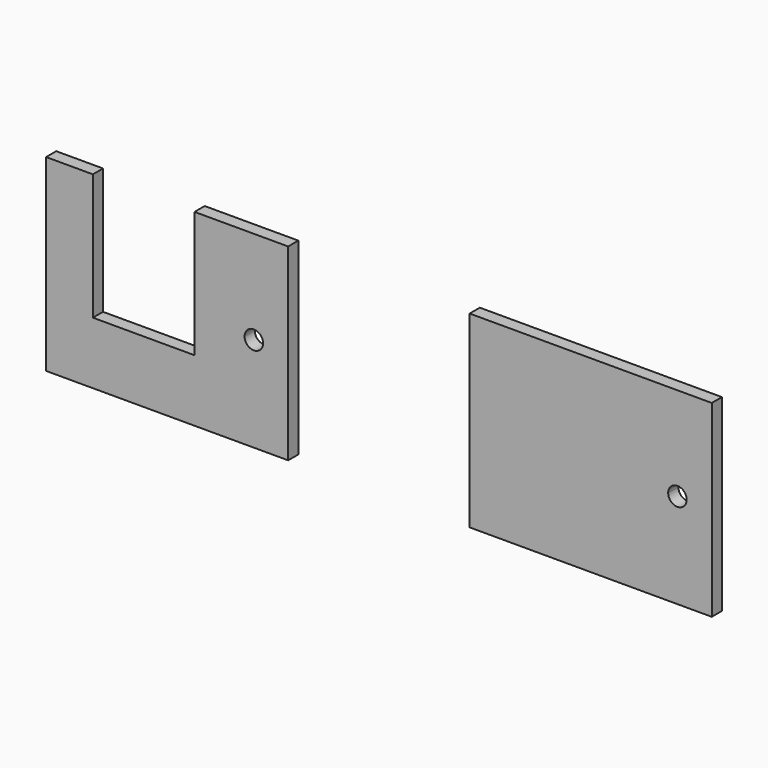
from build123d import *

# Parameters (mm, degrees)
F1_DEPTH = 3
F3_W     = 24
F3_H     = 29.7919254476
F4_DEPTH = 3


with BuildPart() as f1:
    # F0 (on Front) → F1 (new body)
    with BuildSketch(Plane.XZ):
        with BuildLine():
            Line((-13.2813095412, -118.8174709678), (-24.3271607906, -118.8174709678))
            Line((-24.3271607906, -118.8174709678), (-24.3271607906, -163.2674709678))
            Line((-24.3271607906, -163.2674709678), (32.8228392094, -163.2674709678))
            Line((32.8228392094, -163.2674709678), (32.8228392094, -118.8174709678))
            Line((32.8228392094, -118.8174709678), (10.7186904588, -118.8174709678))
            Line((10.7186904588, -118.8174709678), (10.7186904588, -124.8657141138))
            ThreePointArc((10.7186904588, -124.8657141138), (16.6070493723, -131.9210724004), (18.7186904417, -140.8648872041))
            ThreePointArc((18.7186904417, -140.8648872041), (24.7185664001, -134.8646391324), (30.7186904365, -140.8646391312))
            ThreePointArc((30.7186904365, -140.8646391312), (24.7192279278, -146.8646391071), (18.7186905328, -140.8657141137))
            ThreePointArc((18.7186904588, -140.8657141138), (-10.2255814512, -158.7542579338), (-13.2813095412, -124.8657141138))
            Line((-13.2813095412, -124.8657141138), (-13.2813095412, -118.8174709678))
        make_face()
        with BuildLine():
            Line((-13.2813095412, -148.6093964154), (-13.2813095412, -124.8657141138))
            ThreePointArc((-13.2813095412, -124.8657141138), (-10.2255814512, -158.7542579338), (18.7186904588, -140.8657141138))
            ThreePointArc((18.7186904588, -140.8657141138), (18.7186904545, -140.8653006589), (18.7186904417, -140.8648872041))
            Line((18.7186904417, -140.8648872041), (10.7186904588, -140.8652179679))
            Line((10.7186904588, -140.8652179679), (10.7186904588, -148.6093964154))
            Line((10.7186904588, -148.6093964154), (-13.2813095412, -148.6093964154))
        make_face()
        with BuildLine():
            ThreePointArc((18.7186904417, -140.8648872041), (16.6070493723, -131.9210724004), (10.7186904588, -124.8657141138))
            Line((10.7186904588, -124.8657141138), (10.7186904588, -140.8652179679))
            Line((10.7186904588, -140.8652179679), (18.7186904417, -140.8648872041))
        make_face()
        with BuildLine():
            ThreePointArc((18.7186904417, -140.8648872041), (18.7186904545, -140.8653006589), (18.7186904588, -140.8657141138))
            ThreePointArc((18.7186905328, -140.8657141137), (24.7192279278, -146.8646391071), (30.7186904365, -140.8646391312))
            ThreePointArc((30.7186904365, -140.8646391312), (24.7185664001, -134.8646391324), (18.7186904417, -140.8648872041))
        make_face()
        with BuildLine():
            ThreePointArc((26.9015029365, -140.8646391312), (24.7187355613, -143.0474516307), (22.5358779384, -140.8647293806))
            ThreePointArc((22.5358779384, -140.8647293806), (24.7186453118, -138.6818266316), (26.9015029365, -140.8646391312))
        make_face(mode=Mode.SUBTRACT)
    extrude(amount=F1_DEPTH)


with BuildPart() as f2_1:
    # F2: copy of F1
    add(f1.part.moved(Location((100, 0, 0))))

    # F3 (on face) → F4 (join)
    with BuildSketch(Plane.XZ.offset(3)):
        with Locations((98.7186904588, -133.7134336916)):
            Rectangle(F3_W, F3_H)
    extrude(amount=-F4_DEPTH)


solid = Compound([f1.part, f2_1.part])
